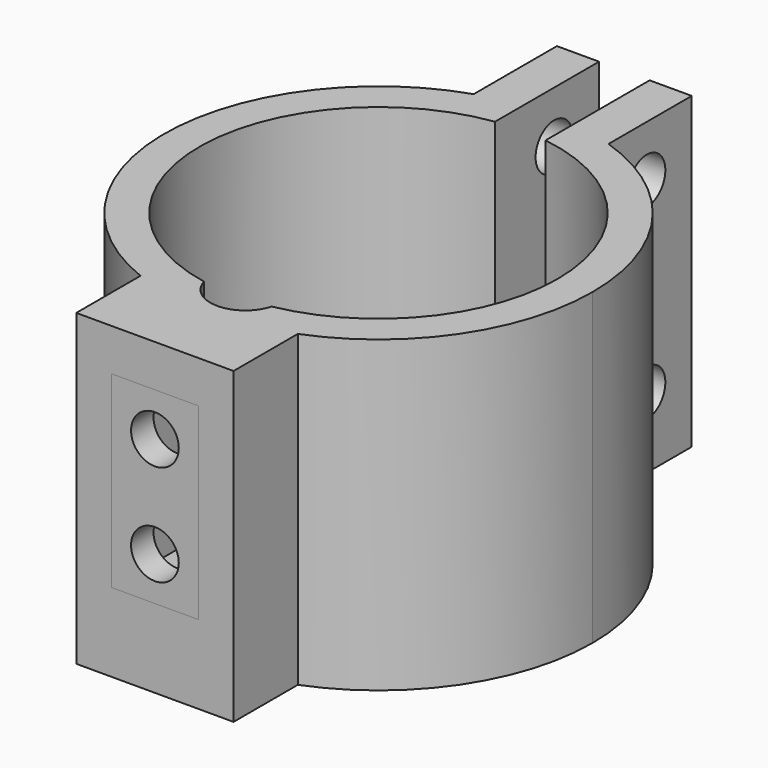
from build123d import *

# Parameters (mm, degrees)
F1_DEPTH   = 29
F2_W       = 6.7394518952
F2_H       = 29
F2_R       = 1.65
F2_W_2     = 1.2605481048
F3_DEPTH   = 3
F4_W       = 6.7394518952
F4_H       = 29
F4_R       = 1.65
F4_W_2     = 1.2605481048
F5_DEPTH   = 3
F7_W       = 6.2
F7_H       = 13.4
F9_DEPTH   = 25
F8_W       = 11.2
F8_H       = 18.4
F8_W_2     = 6.2
F8_H_2     = 13.4
F10_DEPTH  = 4.1
F11_DEPTH  = 25
F12_W      = 9.2
F12_H      = 16.4
F12_W_2    = 6.2
F12_H_2    = 13.4
F13_DEPTH  = 2
F14_DEPTH  = 7.7
F15_R      = 1.7
F16_DEPTH  = 25
F17_DEPTH  = 2
F19_DEPTH  = 29
F17_FACE_W = 11.2
F17_FACE_H = 2
F20_DEPTH  = 3.1
F21_DEPTH  = 7.5
F22_DEPTH  = 7


with BuildPart() as f1:
    # F0 (on Top) → F1 (new body)
    with BuildSketch(Plane.XY):
        with BuildLine():
            ThreePointArc((1.8, 12.6223016918), (9.6310046205, 8.355013465), (12.75, 0))
            ThreePointArc((12.75, 0), (-8.355013465, -9.6310046205), (-1.8, 12.6223016918))
            Line((-1.8, 12.6223016918), (-1.8, 15.1433979014))
            ThreePointArc((-1.8, 15.1433979014), (-10.1270059741, -11.4020283283), (15.25, 0))
            ThreePointArc((15.25, 0), (11.4020283283, 10.1270059741), (1.8, 15.1433979014))
            Line((1.8, 15.1433979014), (1.8, 12.6223016918))
        make_face()
    extrude(amount=F1_DEPTH)

    # F2 (on face) → F3 (join)
    with BuildSketch(Plane.YZ.offset(-1.8)):
        with Locations((18.513123849, 14.5)):
            Rectangle(F2_W, F2_H)
        with Locations((17.8828497966, 5)):
            Circle(F2_R, mode=Mode.SUBTRACT)
        with Locations((17.8828497966, 18.3)):
            Circle(F2_R, mode=Mode.SUBTRACT)
        with Locations((14.513123849, 14.5)):
            Rectangle(F2_W_2, F2_H)
    extrude(amount=-F3_DEPTH)

    # F4 (on face) → F5 (join)
    with BuildSketch(Plane(origin=(1.8, 0, 0), x_dir=(0, -1, 0), z_dir=(-1, 0, 0))):
        with Locations((-18.513123849, 14.5)):
            Rectangle(F4_W, F4_H)
        with Locations((-17.8828497966, 5)):
            Circle(F4_R, mode=Mode.SUBTRACT)
        with Locations((-17.8828497966, 18.3)):
            Circle(F4_R, mode=Mode.SUBTRACT)
        with Locations((-14.513123849, 14.5)):
            Rectangle(F4_W_2, F4_H)
    extrude(amount=-F5_DEPTH)

    # F7 (on offset) → F9 (cut)
    with BuildSketch(Plane.XZ.offset(13.8)):
        with Locations((0, 12.3)):
            Rectangle(F7_W, F7_H)
    extrude(amount=F9_DEPTH, mode=Mode.SUBTRACT)

    # F8 (on offset) → F10 (join)
    with BuildSketch(Plane.XZ.offset(13.8)):
        with Locations((0, 12.3)):
            Rectangle(F8_W, F8_H)
        with Locations((0, 12.3)):
            Rectangle(F8_W_2, F8_H_2, mode=Mode.SUBTRACT)
    extrude(amount=F10_DEPTH)

    # F11 (cut): a face of the model
    f11_faces = [f1.faces().sort_by_distance(p)[0] for p in [
        (0, -13.8, 12.3),
    ]]
    extrude(f11_faces, amount=-F11_DEPTH, mode=Mode.SUBTRACT)


with BuildPart() as f13:
    # F12 (on face) → F13 (new body)
    with BuildSketch(Plane.XZ.offset(17.9)):
        with Locations((0, 12.3)):
            Rectangle(F12_W, F12_H)
        with Locations((0, 12.3)):
            Rectangle(F12_W_2, F12_H_2, mode=Mode.SUBTRACT)
    extrude(amount=F13_DEPTH)


with BuildPart() as f14:
    # F14 (new, through all): a face of the model
    f14_faces = [f13.part.faces().sort_by_distance(p)[0] for p in [
        (3.1, -18.9, 12.3),
    ]]
    extrude(f14_faces, amount=F14_DEPTH)

    # F15 (on face) → F16 (cut)
    with BuildSketch(Plane.XZ.offset(19.9)):
        with Locations((0, 15.9)):
            Circle(F15_R)
        with Locations((0, 8.7)):
            Circle(F15_R)
    extrude(amount=-F16_DEPTH, mode=Mode.SUBTRACT)


with BuildPart() as f17:
    # F17 (new, through all): a face of the model
    f17_faces = [f1.part.faces().sort_by_distance(p)[0] for p in [
        (5.3845934077, -17.9, 12.3),
    ]]
    extrude(f17_faces, amount=F17_DEPTH)


with BuildPart() as f1_1:
    add(f1.part)

    # F18 (on face) → F19 (cut, through all)
    with BuildSketch(Plane.XY.offset(29)):
        with BuildLine():
            ThreePointArc((2.4087704015, -12.5203963656), (0, -12.75), (-2.4087704015, -12.5203963656))
            ThreePointArc((-2.4087704015, -12.5203963656), (0, -14.3511989713), (2.4087704015, -12.5203963656))
        make_face()
    extrude(amount=-F19_DEPTH, mode=Mode.SUBTRACT)

    add(f17.part)  # F20 merges F17
    # F17_face (on face) + F10_face1 (on face) → F20 (join, through all)
    with BuildSketch(Plane(origin=(0, -18.9, 3.1), x_dir=(1, 0, 0), z_dir=(0, 0, -1))):
        Rectangle(F17_FACE_W, F17_FACE_H)
    with BuildSketch(Plane(origin=(0, -16.3833509028, 3.1), x_dir=(1, 0, 0), z_dir=(0, 0, -1))):
        with BuildLine():
            ThreePointArc((-5.6, -2.1987641975), (0, -1.1333509028), (5.6, -2.1987641975))
            Line((5.6, -2.1987641975), (5.6, 1.5166490972))
            Line((5.6, 1.5166490972), (-5.6, 1.5166490972))
            Line((-5.6, 1.5166490972), (-5.6, -2.1987641975))
        make_face()
    extrude(amount=F20_DEPTH)

    # F21 (add, through all): a face of the model
    f21_faces = [f1_1.faces().sort_by_distance(p)[0] for p in [
        (0, -17.3900060691, 21.5),
    ]]
    extrude(f21_faces, amount=F21_DEPTH)

    # F22 (cut): a face of the model
    f22_faces = [f1_1.faces().sort_by_distance(p)[0] for p in [
        (0, -19.3826938491, 29),
    ]]
    extrude(f22_faces, amount=-F22_DEPTH, mode=Mode.SUBTRACT)


solid = Compound([f13.part, f14.part, f1_1.part])
